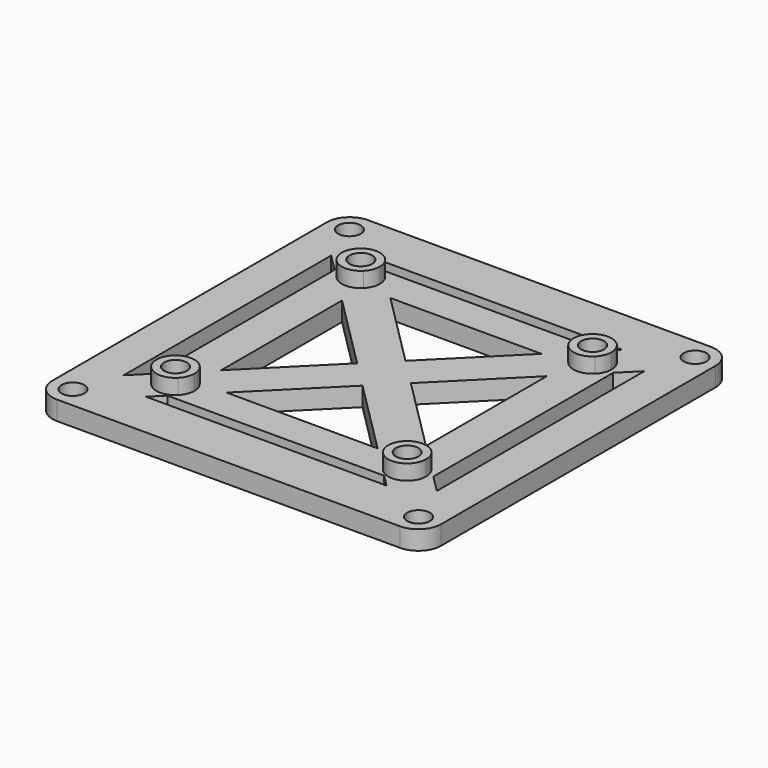
from build123d import *

# Parameters (mm, degrees)
F0_R     = 1.5
F1_DEPTH = 2.5
F2_DEPTH = 4.5


with BuildPart() as f1:
    # F0 (on Top) → F1 (new body)
    with BuildSketch(Plane.XY):
        with BuildLine():
            Line((22.5784271247, 25.5784271247), (-22.5784271247, 25.5784271247))
            ThreePointArc((-22.5784271247, 25.5784271247), (-24.6997474683, 24.6997474683), (-25.5784271247, 22.5784271247))
            Line((-25.5784271247, 22.5784271247), (-25.5784271247, -22.5784271247))
            ThreePointArc((-25.5784271247, -22.5784271247), (-24.6997474683, -24.6997474683), (-22.5784271247, -25.5784271247))
            Line((-22.5784271247, -25.5784271247), (22.5784271247, -25.5784271247))
            ThreePointArc((22.5784271247, -25.5784271247), (24.6997474683, -24.6997474683), (25.5784271247, -22.5784271247))
            Line((25.5784271247, -22.5784271247), (25.5784271247, 22.5784271247))
            ThreePointArc((25.5784271247, 22.5784271247), (24.6997474683, 24.6997474683), (22.5784271247, 25.5784271247))
        make_face()
        with Locations((-22.75, -22.75)):
            Circle(F0_R, mode=Mode.SUBTRACT)
        with Locations((22.75, -22.75)):
            Circle(F0_R, mode=Mode.SUBTRACT)
        Polygon((20.609353269, 17.0738193631), (20.609353269, -17.0738193631), (20.609353269, -19.3710013949), (15.835467489, -19.3710013949), (-15.835467489, -19.3710013949), (-20.609353269, -19.3710013949), (-20.609353269, -17.0738193631), (-20.609353269, 17.0738193631), (-20.609353269, 19.3710013949), (-15.835467489, 19.3710013949), (15.835467489, 19.3710013949), (20.609353269, 19.3710013949), align=None, mode=Mode.SUBTRACT)
        with Locations((-22.75, 22.75)):
            Circle(F0_R, mode=Mode.SUBTRACT)
        with Locations((22.75, 22.75)):
            Circle(F0_R, mode=Mode.SUBTRACT)
        Polygon((13.482233047, 9.9466991411), (13.482233047, -9.9466991411), (17.0177669094, -13.4822330035), (18.3316272948, -14.7960933889), (18.3316272948, 14.7960933889), (17.017766953, 13.482233047), align=None)
        Polygon((-17.0177669365, -13.4822330306), (-13.482233047, -9.9466991411), (-13.482233047, 9.9466991411), (-17.0177669469, 13.482233041), (-18.3316272948, 14.7960933889), (-18.3316272948, -14.7960933889), align=None)
        Polygon((-9.9466991411, 13.482233047), (9.9466991411, 13.482233047), (13.482233047, 17.017766953), (14.2646765199, 17.8002104258), (-14.2646765199, 17.8002104258), (-13.482233047, 17.017766953), align=None)
        Polygon((13.4822330479, -17.0177669538), (9.9466991411, -13.482233047), (-9.9466991411, -13.482233047), (-13.4822330382, -17.0177669441), (-14.2646765199, -17.8002104258), (14.2646765199, -17.8002104258), align=None)
        Polygon((-13.482233047, 9.9466991411), (-3.5355339059, 0), (0, 3.5355339059), (-9.9466991411, 13.482233047), (-13.482233047, 13.482233047), align=None)
        Polygon((9.9466991411, -13.482233047), (13.482233047, -13.482233047), (13.482233047, -9.9466991411), (3.5355339059, 0), (0, -3.5355339059), align=None)
        Polygon((3.5355339059, 0), (13.482233047, 9.9466991411), (13.482233047, 13.482233047), (9.9466991411, 13.482233047), (0, 3.5355339059), align=None)
        Polygon((-13.482233047, -13.482233047), (-9.9466991411, -13.482233047), (0, -3.5355339059), (-3.5355339059, 0), (-13.482233047, -9.9466991411), align=None)
        Polygon((-3.5355339059, 0), (0, -3.5355339059), (3.5355339059, 0), (0, 3.5355339059), align=None)
        with BuildLine():
            ThreePointArc((-17.0177669469, 13.482233041), (-15.2499999957, 12.75), (-13.482233047, 13.482233047))
            ThreePointArc((-13.482233047, 13.482233047), (-12.9403011687, 14.2932914191), (-12.75, 15.25))
            ThreePointArc((-12.75, 15.25), (-12.9403011687, 16.2067085809), (-13.482233047, 17.017766953))
            ThreePointArc((-13.482233047, 17.017766953), (-17.017766956, 17.01776695), (-17.0177669469, 13.482233041))
        make_face()
        with Locations((-15.25, 15.25)):
            Circle(F0_R, mode=Mode.SUBTRACT)
        with BuildLine():
            ThreePointArc((13.482233047, 17.017766953), (12.75, 15.25), (13.482233047, 13.482233047))
            ThreePointArc((13.482233047, 13.482233047), (15.25, 12.75), (17.017766953, 13.482233047))
            ThreePointArc((17.017766953, 13.482233047), (17.5596988313, 14.2932914191), (17.75, 15.25))
            ThreePointArc((17.75, 15.25), (16.2067085809, 17.5596988313), (13.482233047, 17.017766953))
        make_face()
        with Locations((15.25, 15.25)):
            Circle(F0_R, mode=Mode.SUBTRACT)
        with BuildLine():
            ThreePointArc((17.0177669094, -13.4822330035), (15.2499999692, -12.75), (13.482233047, -13.482233047))
            ThreePointArc((13.482233047, -13.482233047), (12.75, -15.2500000006), (13.4822330479, -17.0177669538))
            ThreePointArc((13.4822330479, -17.0177669538), (16.2067085815, -17.559698831), (17.75, -15.25))
            ThreePointArc((17.75, -15.25), (17.5596988195, -14.2932913907), (17.0177669094, -13.4822330035))
        make_face()
        with Locations((15.25, -15.25)):
            Circle(F0_R, mode=Mode.SUBTRACT)
        with BuildLine():
            ThreePointArc((-12.75, -15.25), (-12.9403011687, -14.2932914191), (-13.482233047, -13.482233047))
            ThreePointArc((-13.482233047, -13.482233047), (-15.2499999884, -12.75), (-17.0177669365, -13.4822330306))
            ThreePointArc((-17.0177669365, -13.4822330306), (-17.0177669568, -17.0177669492), (-13.4822330382, -17.0177669441))
            ThreePointArc((-13.4822330382, -17.0177669441), (-12.9403011663, -16.2067085751), (-12.75, -15.25))
        make_face()
        with Locations((-15.25, -15.25)):
            Circle(F0_R, mode=Mode.SUBTRACT)
        Polygon((-20.609353269, 17.0738193631), (-18.3316272948, 14.7960933889), (-18.3316272948, 17.8002104258), (-14.2646765199, 17.8002104258), (-15.835467489, 19.3710013949), (-20.609353269, 19.3710013949), align=None)
        Polygon((18.3316272948, 17.8002104258), (18.3316272948, 14.7960933889), (20.609353269, 17.0738193631), (20.609353269, 19.3710013949), (15.835467489, 19.3710013949), (14.2646765199, 17.8002104258), align=None)
        Polygon((-15.835467489, -19.3710013949), (-14.2646765199, -17.8002104258), (-18.3316272948, -17.8002104258), (-18.3316272948, -14.7960933889), (-20.609353269, -17.0738193631), (-20.609353269, -19.3710013949), align=None)
        Polygon((20.609353269, -17.0738193631), (18.3316272948, -14.7960933889), (18.3316272948, -17.8002104258), (14.2646765199, -17.8002104258), (15.835467489, -19.3710013949), (20.609353269, -19.3710013949), align=None)
        with BuildLine():
            Line((-13.482233047, 13.482233047), (-9.9466991411, 13.482233047))
            Line((-9.9466991411, 13.482233047), (-13.482233047, 17.017766953))
            ThreePointArc((-13.482233047, 17.017766953), (-12.9403011687, 16.2067085809), (-12.75, 15.25))
            ThreePointArc((-12.75, 15.25), (-12.9403011687, 14.2932914191), (-13.482233047, 13.482233047))
        make_face()
        with BuildLine():
            Line((-17.0177669469, 13.482233041), (-13.482233047, 9.9466991411))
            Line((-13.482233047, 9.9466991411), (-13.482233047, 13.482233047))
            ThreePointArc((-13.482233047, 13.482233047), (-15.2499999957, 12.75), (-17.0177669469, 13.482233041))
        make_face()
        with BuildLine():
            Line((9.9466991411, 13.482233047), (13.482233047, 13.482233047))
            ThreePointArc((13.482233047, 13.482233047), (12.75, 15.25), (13.482233047, 17.017766953))
            Line((13.482233047, 17.017766953), (9.9466991411, 13.482233047))
        make_face()
        with BuildLine():
            Line((13.482233047, 13.482233047), (13.482233047, 9.9466991411))
            Line((13.482233047, 9.9466991411), (17.017766953, 13.482233047))
            ThreePointArc((17.017766953, 13.482233047), (15.25, 12.75), (13.482233047, 13.482233047))
        make_face()
        with BuildLine():
            Line((13.482233047, -9.9466991411), (13.482233047, -13.482233047))
            ThreePointArc((13.482233047, -13.482233047), (15.2499999692, -12.75), (17.0177669094, -13.4822330035))
            Line((17.0177669094, -13.4822330035), (13.482233047, -9.9466991411))
        make_face()
        with BuildLine():
            ThreePointArc((13.4822330479, -17.0177669538), (12.75, -15.2500000006), (13.482233047, -13.482233047))
            Line((13.482233047, -13.482233047), (9.9466991411, -13.482233047))
            Line((9.9466991411, -13.482233047), (13.4822330479, -17.0177669538))
        make_face()
        with BuildLine():
            Line((-13.4822330382, -17.0177669441), (-9.9466991411, -13.482233047))
            Line((-9.9466991411, -13.482233047), (-13.482233047, -13.482233047))
            ThreePointArc((-13.482233047, -13.482233047), (-12.9403011687, -14.2932914191), (-12.75, -15.25))
            ThreePointArc((-12.75, -15.25), (-12.9403011663, -16.2067085751), (-13.4822330382, -17.0177669441))
        make_face()
        with BuildLine():
            ThreePointArc((-17.0177669365, -13.4822330306), (-15.2499999884, -12.75), (-13.482233047, -13.482233047))
            Line((-13.482233047, -13.482233047), (-13.482233047, -9.9466991411))
            Line((-13.482233047, -9.9466991411), (-17.0177669365, -13.4822330306))
        make_face()
        with BuildLine():
            Line((-18.3316272948, 14.7960933889), (-17.0177669469, 13.482233041))
            ThreePointArc((-17.0177669469, 13.482233041), (-17.017766956, 17.01776695), (-13.482233047, 17.017766953))
            Line((-13.482233047, 17.017766953), (-14.2646765199, 17.8002104258))
            Line((-14.2646765199, 17.8002104258), (-18.3316272948, 17.8002104258))
            Line((-18.3316272948, 17.8002104258), (-18.3316272948, 14.7960933889))
        make_face()
        with BuildLine():
            ThreePointArc((17.75, 15.25), (17.5596988313, 14.2932914191), (17.017766953, 13.482233047))
            Line((17.017766953, 13.482233047), (18.3316272948, 14.7960933889))
            Line((18.3316272948, 14.7960933889), (18.3316272948, 17.8002104258))
            Line((18.3316272948, 17.8002104258), (14.2646765199, 17.8002104258))
            Line((14.2646765199, 17.8002104258), (13.482233047, 17.017766953))
            ThreePointArc((13.482233047, 17.017766953), (16.2067085809, 17.5596988313), (17.75, 15.25))
        make_face()
        with BuildLine():
            Line((18.3316272948, -14.7960933889), (17.0177669094, -13.4822330035))
            ThreePointArc((17.0177669094, -13.4822330035), (17.5596988195, -14.2932913907), (17.75, -15.25))
            ThreePointArc((17.75, -15.25), (16.2067085815, -17.559698831), (13.4822330479, -17.0177669538))
            Line((13.4822330479, -17.0177669538), (14.2646765199, -17.8002104258))
            Line((14.2646765199, -17.8002104258), (18.3316272948, -17.8002104258))
            Line((18.3316272948, -17.8002104258), (18.3316272948, -14.7960933889))
        make_face()
        with BuildLine():
            Line((-14.2646765199, -17.8002104258), (-13.4822330382, -17.0177669441))
            ThreePointArc((-13.4822330382, -17.0177669441), (-17.0177669568, -17.0177669492), (-17.0177669365, -13.4822330306))
            Line((-17.0177669365, -13.4822330306), (-18.3316272948, -14.7960933889))
            Line((-18.3316272948, -14.7960933889), (-18.3316272948, -17.8002104258))
            Line((-18.3316272948, -17.8002104258), (-14.2646765199, -17.8002104258))
        make_face()
    extrude(amount=F1_DEPTH)

    # F0 (on Top) → F2 (join)
    with BuildSketch(Plane.XY):
        with BuildLine():
            ThreePointArc((-12.75, -15.25), (-12.9403011687, -14.2932914191), (-13.482233047, -13.482233047))
            ThreePointArc((-13.482233047, -13.482233047), (-15.2499999884, -12.75), (-17.0177669365, -13.4822330306))
            ThreePointArc((-17.0177669365, -13.4822330306), (-17.0177669568, -17.0177669492), (-13.4822330382, -17.0177669441))
            ThreePointArc((-13.4822330382, -17.0177669441), (-12.9403011663, -16.2067085751), (-12.75, -15.25))
        make_face()
        with Locations((-15.25, -15.25)):
            Circle(F0_R, mode=Mode.SUBTRACT)
        with BuildLine():
            ThreePointArc((-17.0177669469, 13.482233041), (-15.2499999957, 12.75), (-13.482233047, 13.482233047))
            ThreePointArc((-13.482233047, 13.482233047), (-12.9403011687, 14.2932914191), (-12.75, 15.25))
            ThreePointArc((-12.75, 15.25), (-12.9403011687, 16.2067085809), (-13.482233047, 17.017766953))
            ThreePointArc((-13.482233047, 17.017766953), (-17.017766956, 17.01776695), (-17.0177669469, 13.482233041))
        make_face()
        with Locations((-15.25, 15.25)):
            Circle(F0_R, mode=Mode.SUBTRACT)
        with BuildLine():
            ThreePointArc((17.0177669094, -13.4822330035), (15.2499999692, -12.75), (13.482233047, -13.482233047))
            ThreePointArc((13.482233047, -13.482233047), (12.75, -15.2500000006), (13.4822330479, -17.0177669538))
            ThreePointArc((13.4822330479, -17.0177669538), (16.2067085815, -17.559698831), (17.75, -15.25))
            ThreePointArc((17.75, -15.25), (17.5596988195, -14.2932913907), (17.0177669094, -13.4822330035))
        make_face()
        with Locations((15.25, -15.25)):
            Circle(F0_R, mode=Mode.SUBTRACT)
        with BuildLine():
            ThreePointArc((13.482233047, 17.017766953), (12.75, 15.25), (13.482233047, 13.482233047))
            ThreePointArc((13.482233047, 13.482233047), (15.25, 12.75), (17.017766953, 13.482233047))
            ThreePointArc((17.017766953, 13.482233047), (17.5596988313, 14.2932914191), (17.75, 15.25))
            ThreePointArc((17.75, 15.25), (16.2067085809, 17.5596988313), (13.482233047, 17.017766953))
        make_face()
        with Locations((15.25, 15.25)):
            Circle(F0_R, mode=Mode.SUBTRACT)
    extrude(amount=F2_DEPTH)


solid = f1.part
